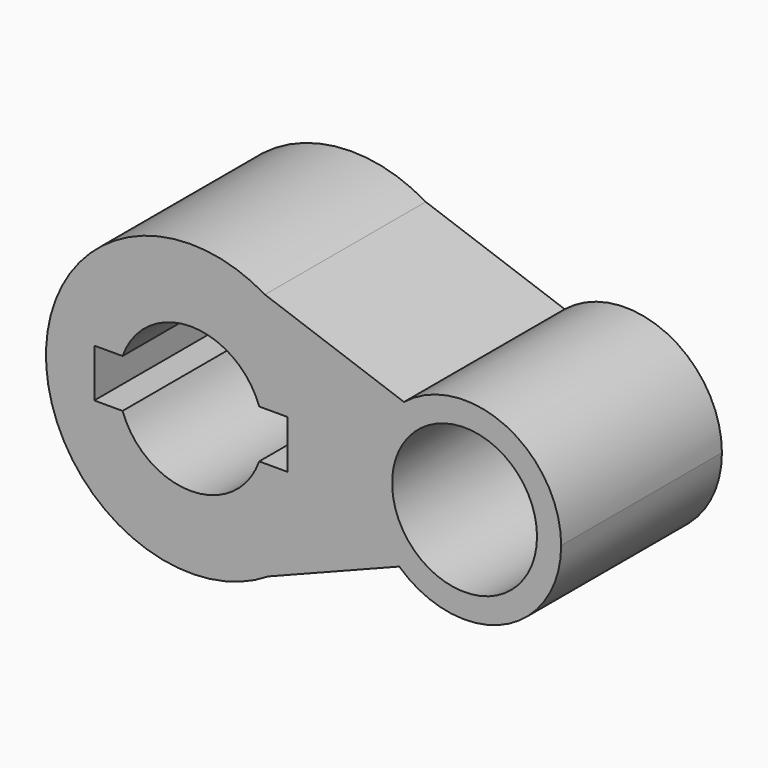
from build123d import *

# Parameters (mm, degrees)
F0_R     = 14.2875
F1_DEPTH = 39.624


with BuildPart() as f1:
    # F0 (on Front) → F1 (new body)
    with BuildSketch(Plane.XZ):
        with BuildLine():
            ThreePointArc((73.025, 0), (62.19921, 17.183273), (42.026063, 14.836624))
            ThreePointArc((42.026063, 14.836624), (34.934863, 0.612924), (41.096574, -14.037402))
            ThreePointArc((41.096574, -14.037402), (61.642088, -17.438987), (73.025, 0))
        make_face()
        with Locations((53.975, 0)):
            Circle(F0_R, mode=Mode.SUBTRACT)
        with BuildLine():
            ThreePointArc((14.607696, 24.559028), (24.838936, 14.126495), (28.575, 0))
            ThreePointArc((28.575, 0), (25.030648, -13.783951), (15.276852, -24.148466))
            Line((15.276852, -24.148466), (41.096574, -14.037402))
            ThreePointArc((41.096574, -14.037402), (34.934863, 0.612924), (42.026063, 14.836624))
            Line((42.026063, 14.836624), (14.607696, 24.559028))
        make_face()
        with BuildLine():
            ThreePointArc((15.276852, -24.148466), (25.030648, -13.783951), (28.575, 0))
            ThreePointArc((28.575, 0), (24.838936, 14.126495), (14.607696, 24.559028))
            ThreePointArc((14.607696, 24.559028), (-28.572304, -0.392534), (15.276852, -24.148466))
        make_face()
        with BuildLine():
            ThreePointArc((-13.470384, 4.7625), (0, 14.2875), (13.470384, 4.7625))
            Line((13.470384, 4.7625), (19.05, 4.7625))
            Line((19.05, 4.7625), (19.05, -4.7625))
            Line((19.05, -4.7625), (13.470384, -4.7625))
            ThreePointArc((13.470384, -4.7625), (0, -14.2875), (-13.470384, -4.7625))
            Line((-13.470384, -4.7625), (-19.05, -4.7625))
            Line((-19.05, -4.7625), (-19.05, 4.7625))
            Line((-19.05, 4.7625), (-13.470384, 4.7625))
        make_face(mode=Mode.SUBTRACT)
    extrude(amount=F1_DEPTH)


solid = f1.part
